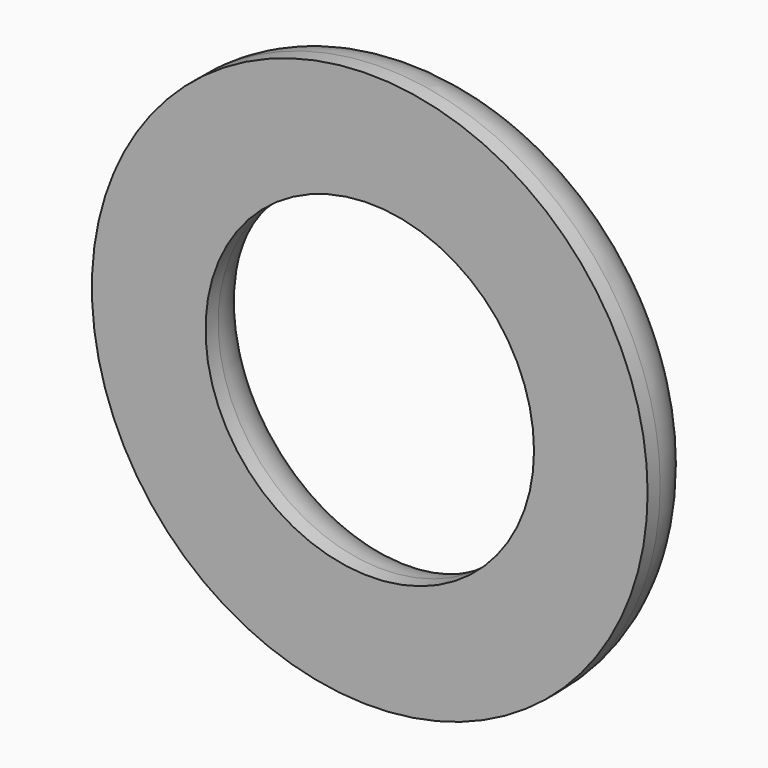
from build123d import *

# Parameters (mm, degrees)
F0_R     = 12.386954
F0_R_2   = 7.321993
F1_DEPTH = 3.2
F2_R     = 2.5


with BuildPart() as f1:
    # F0 (on Front) → F1 (new body)
    with BuildSketch(Plane.XZ):
        Circle(F0_R)
        Circle(F0_R_2, mode=Mode.SUBTRACT)
    extrude(amount=-F1_DEPTH)

    # F2
    f2_edges = [f1.edges().sort_by_distance(p)[0] for p in [
        (-12.386954, 3.2, 0),
        (-7.321993, 3.2, 0),
    ]]
    fillet(f2_edges, radius=F2_R)


solid = f1.part
